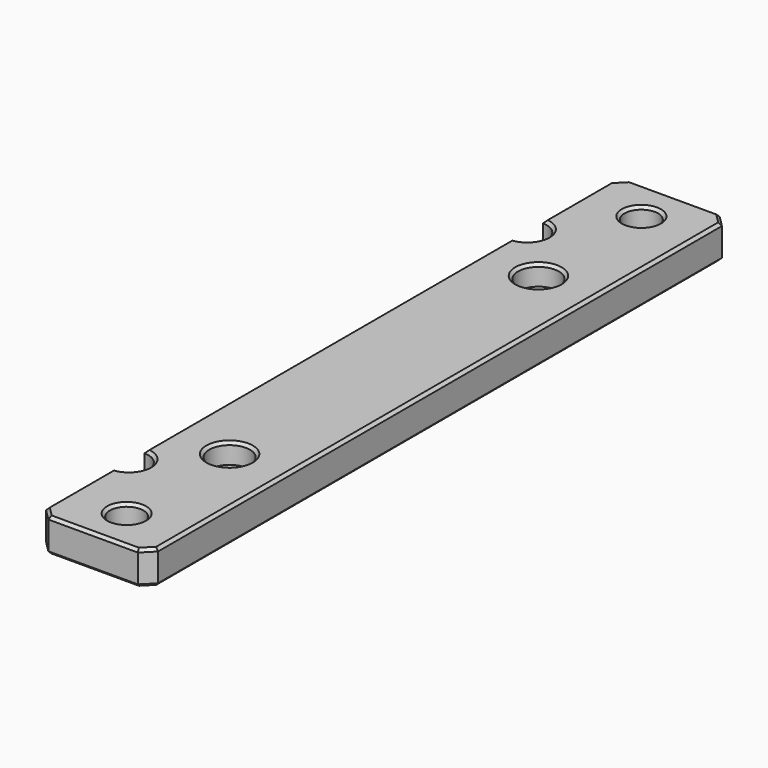
from build123d import *

# Parameters (mm, degrees)
F0_W           = 20
F0_H           = 130
F1_DEPTH       = 6
F3_D           = 4
F3_DEPTH       = 20
F3_CBORE_D     = 7.3
F3_CBORE_DEPTH = 3.6
F5_D           = 7
F5_DEPTH       = 20
F7_D           = 6
F7_DEPTH       = 20
F8_SIZE        = 2
F9_SIZE        = 0.5


with BuildPart() as f1:
    # F0 (on Top) → F1 (new body)
    with BuildSketch(Plane.XY):
        Rectangle(F0_W, F0_H)
    extrude(amount=F1_DEPTH)

    # F3
    with Locations(Plane.XY.offset(6)):
        with Locations((0, 34.5), (0, -34.5)):
            CounterBoreHole(F3_D / 2, F3_CBORE_D / 2, F3_CBORE_DEPTH, depth=F3_DEPTH)

    # F5
    with Locations(Plane.XY.offset(6)):
        with Locations((-10, 44.5), (-10, -44.5)):
            Hole(F5_D / 2, depth=F5_DEPTH)

    # F7
    with Locations(Plane(origin=(0, 0, 0), x_dir=(1, 0, 0), z_dir=(0, 0, -1))):
        with Locations((0, -57.5), (0, 57.5)):
            Hole(F7_D / 2, depth=F7_DEPTH)

    # F8
    f8_edges = [f1.edges().sort_by_distance(p)[0] for p in [
        (-10, -65, 3),
        (10, -65, 3),
        (-10, 65, 3),
        (10, 65, 3),
    ]]
    chamfer(f8_edges, length=F8_SIZE)

    # F9
    f9_edges = [f1.edges().sort_by_distance(p)[0] for p in [
        (-10, -55.5, 0),
        (-9, -64, 0),
        (-6.5, -44.5, 0),
        (0, -65, 0),
        (-10, 0, 0),
        (9, -64, 0),
        (-6.5, 44.5, 0),
        (10, 0, 0),
        (-10, 55.5, 0),
        (9, 64, 0),
        (-9, 64, 0),
        (0, 65, 0),
        (-3, -57.5, 0),
        (-2, -34.5, 0),
        (-2, 34.5, 0),
        (-3, 57.5, 0),
        (-10, -55.5, 6),
        (-9, -64, 6),
        (-6.5, -44.5, 6),
        (0, -65, 6),
        (-10, 0, 6),
        (9, -64, 6),
        (-6.5, 44.5, 6),
        (10, 0, 6),
        (-10, 55.5, 6),
        (9, 64, 6),
        (-9, 64, 6),
        (0, 65, 6),
        (-3, -57.5, 6),
        (-3.65, -34.5, 6),
        (-3.65, 34.5, 6),
        (-3, 57.5, 6),
    ]]
    chamfer(f9_edges, length=F9_SIZE)


solid = f1.part
